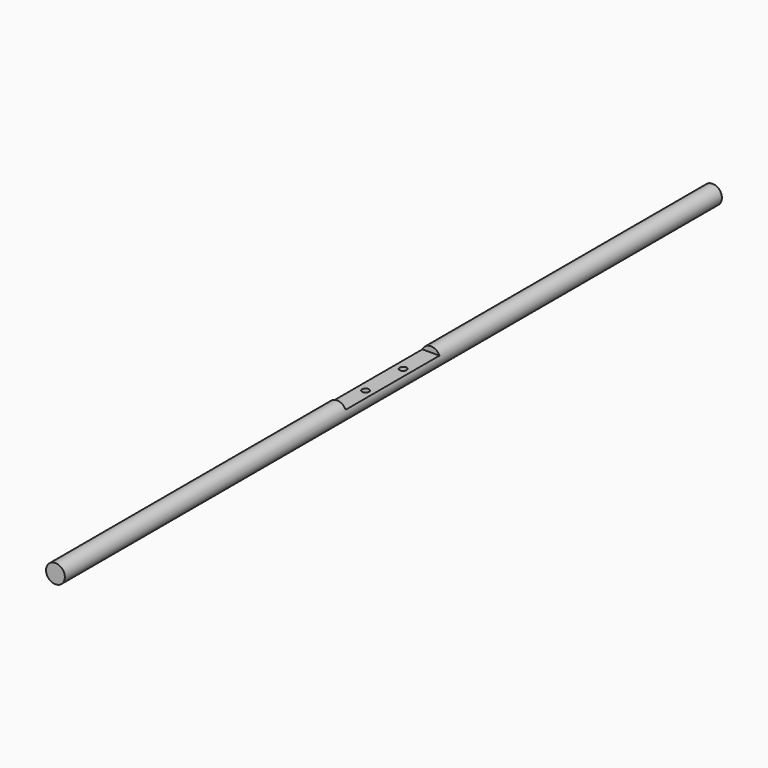
from build123d import *

# Parameters (mm, degrees)
F0_R     = 8
F1_DEPTH = 700
F2_W     = 100
F2_H     = 5
F3_DEPTH = 88
F4_R     = 3
F5_DEPTH = 15


with BuildPart() as f1:
    # F0 (on Front) → F1 (new body)
    with BuildSketch(Plane.XZ):
        with Locations((-65.652847, 44.169296)):
            Circle(F0_R)
    extrude(amount=F1_DEPTH)

    # F2 (on Right) → F3 (cut)
    with BuildSketch(Plane.YZ):
        with Locations((-350, 49.991539)):
            Rectangle(F2_W, F2_H)
    extrude(amount=-F3_DEPTH, mode=Mode.SUBTRACT)

    # F4 (on face) → F5 (cut)
    with BuildSketch(Plane.XY.offset(47.491539)):
        with Locations((-65.344319, -370)):
            Circle(F4_R)
        with Locations((-65.344319, -330)):
            Circle(F4_R)
    extrude(amount=-F5_DEPTH, mode=Mode.SUBTRACT)


solid = f1.part
